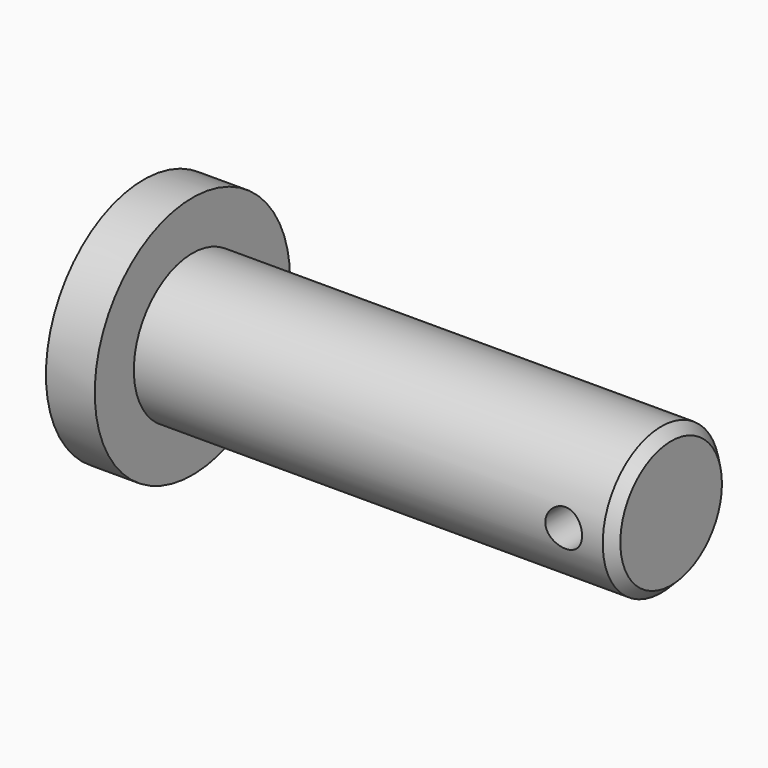
from build123d import *

# Parameters (mm, degrees)
F0_R     = 15.875
F1_DEPTH = 6.35
F2_R     = 9.525
F3_DEPTH = 62.23
F4_SIZE  = 1.27
F5_R     = 2.3876
F6_DEPTH = 15.876
F7_R     = 2.3876
F8_DEPTH = 15.876


with BuildPart() as f1:
    # F0 (on Right) → F1 (new body)
    with BuildSketch(Plane.YZ):
        Circle(F0_R)
    extrude(amount=F1_DEPTH)

    # F2 (on face) → F3 (join)
    with BuildSketch(Plane.YZ.offset(6.35)):
        Circle(F2_R)
    extrude(amount=F3_DEPTH)

    # F4
    f4_edges = [f1.edges().sort_by_distance(p)[0] for p in [
        (68.58, -9.525, 0),
    ]]
    chamfer(f4_edges, length=F4_SIZE)

    # F5 (on Front) → F6 (cut, through all)
    with BuildSketch(Plane.XZ):
        with Locations((62.23, 0)):
            Circle(F5_R)
    extrude(amount=-F6_DEPTH, mode=Mode.SUBTRACT)

    # F7 (on face) → F8 (cut, through all)
    with BuildSketch(Plane(origin=(0, 0, 0), x_dir=(-1, 0, 0), z_dir=(0, 1, 0))):
        with Locations((-62.23, 0)):
            Circle(F7_R)
    extrude(amount=-F8_DEPTH, mode=Mode.SUBTRACT)


solid = f1.part
